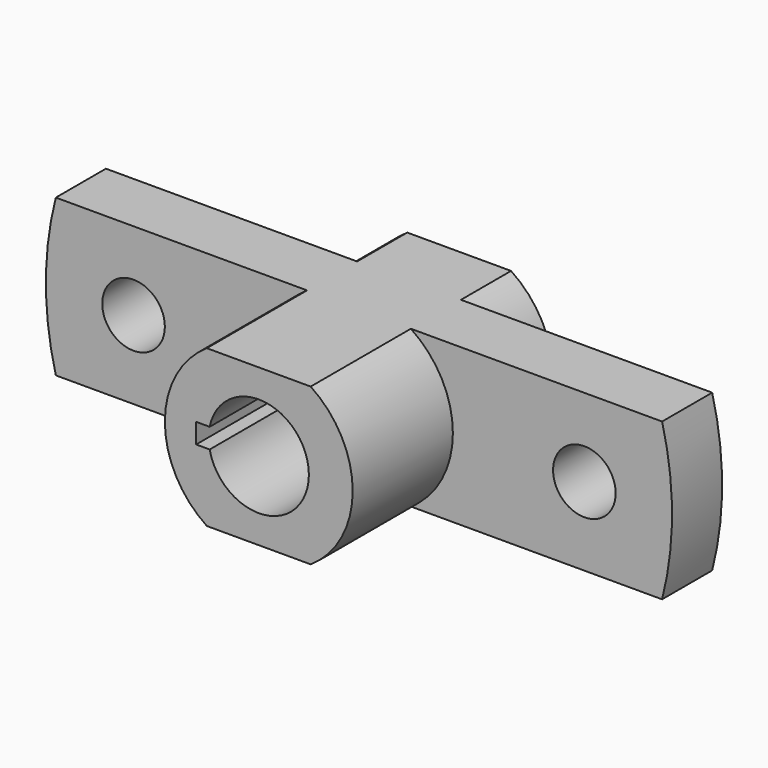
from build123d import *

# Parameters (mm, degrees)
F1_DEPTH      = 30
F1_DEPTH_BACK = 10
F0_R          = 5
F2_DEPTH      = 10


with BuildPart() as f1:
    # F0 (on Front) → F1 (new body, two sides)
    with BuildSketch(Plane.XZ) as f1_sk:
        with BuildLine():
            Line((8.291562, 12.5), (-8.291562, 12.5))
            ThreePointArc((-8.291562, 12.5), (-15, 0), (-8.291562, -12.5))
            Line((-8.291562, -12.5), (8.291562, -12.5))
            ThreePointArc((8.291562, -12.5), (15, 0), (8.291562, 12.5))
        make_face()
        with BuildLine():
            ThreePointArc((-7.839672, 1.593593), (8, 0), (-7.839672, -1.593593))
            Line((-7.839672, -1.593593), (-10, -1.593593))
            Line((-10, -1.593593), (-10, 1.593593))
            Line((-10, 1.593593), (-7.839672, 1.593593))
        make_face(mode=Mode.SUBTRACT)
    extrude(amount=F1_DEPTH)
    extrude(f1_sk.sketch, amount=-F1_DEPTH_BACK)

    # F0 (on Front) → F2 (join)
    with BuildSketch(Plane.XZ):
        with BuildLine():
            Line((-8.291562, 12.5), (-48.412292, 12.5))
            ThreePointArc((-48.412292, 12.5), (-50, 0), (-48.412292, -12.5))
            Line((-48.412292, -12.5), (-8.291562, -12.5))
            ThreePointArc((-8.291562, -12.5), (-15, 0), (-8.291562, 12.5))
        make_face()
        with Locations((-36, 0)):
            Circle(F0_R, mode=Mode.SUBTRACT)
        with BuildLine():
            Line((8.291562, 12.5), (-8.291562, 12.5))
            ThreePointArc((-8.291562, 12.5), (-15, 0), (-8.291562, -12.5))
            Line((-8.291562, -12.5), (8.291562, -12.5))
            ThreePointArc((8.291562, -12.5), (15, 0), (8.291562, 12.5))
        make_face()
        with BuildLine():
            ThreePointArc((-7.839672, 1.593593), (8, 0), (-7.839672, -1.593593))
            Line((-7.839672, -1.593593), (-10, -1.593593))
            Line((-10, -1.593593), (-10, 1.593593))
            Line((-10, 1.593593), (-7.839672, 1.593593))
        make_face(mode=Mode.SUBTRACT)
        with BuildLine():
            Line((48.412292, 12.5), (8.291562, 12.5))
            ThreePointArc((8.291562, 12.5), (15, 0), (8.291562, -12.5))
            Line((8.291562, -12.5), (48.412292, -12.5))
            ThreePointArc((48.412292, -12.5), (50, 0), (48.412292, 12.5))
        make_face()
        with Locations((36, 0)):
            Circle(F0_R, mode=Mode.SUBTRACT)
    extrude(amount=F2_DEPTH)


solid = f1.part
